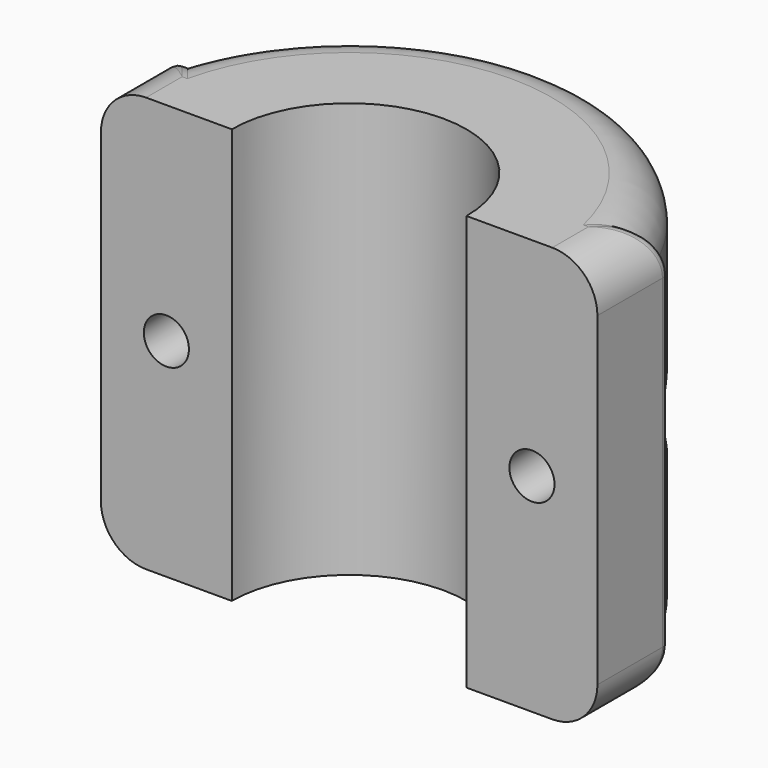
from build123d import *

# Parameters (mm, degrees)
F1_DEPTH       = 23
F4_D           = 9
F4_DEPTH       = 15
F4_TIP         = 2.7038727856
F5_D           = 5
F5_DEPTH       = 15
F5_CBORE_D     = 9
F5_CBORE_DEPTH = 5
F5_TIP         = 1.5021515476
F6_R           = 5
F7_R           = 5
F8_R           = 1
F9_R           = 1


with BuildPart() as f1:
    # F0 (on Top) → F1 (new body, symmetric)
    with BuildSketch(Plane.XY):
        with BuildLine():
            Line((-13, 10), (-13, 0))
            ThreePointArc((-13, 0), (0, 13), (13, 0))
            Line((13, 0), (13, 10))
            Line((13, 10), (25.6173769149, 10))
            ThreePointArc((25.6173769149, 10), (0, 27.5), (-25.6173769149, 10))
            Line((-25.6173769149, 10), (-13, 10))
        make_face()
        with BuildLine():
            Line((-27.5, 0), (-13, 0))
            Line((-13, 0), (-13, 10))
            Line((-13, 10), (-25.6173769149, 10))
            ThreePointArc((-25.6173769149, 10), (-27.0252462076, 5.0878352391), (-27.5, 0))
        make_face()
        with BuildLine():
            Line((13, 10), (13, 0))
            Line((13, 0), (27.5, 0))
            ThreePointArc((27.5, 0), (27.0252462076, 5.0878352391), (25.6173769149, 10))
            Line((25.6173769149, 10), (13, 10))
        make_face()
        with BuildLine():
            Line((-27.5, 10), (-27.5, 0))
            ThreePointArc((-27.5, 0), (-27.0252462076, 5.0878352391), (-25.6173769149, 10))
            Line((-25.6173769149, 10), (-27.5, 10))
        make_face()
        with BuildLine():
            ThreePointArc((25.6173769149, 10), (27.0252462076, 5.0878352391), (27.5, 0))
            Line((27.5, 0), (27.5, 10))
            Line((27.5, 10), (25.6173769149, 10))
        make_face()
    extrude(amount=F1_DEPTH, both=True)

    # F4 (one way)
    with BuildSketch(Plane.XZ.offset(-10)):
        with Locations((20.25, 0), (-20.25, 0)):
            Circle(F4_D / 2)
    extrude(amount=-F4_DEPTH, mode=Mode.SUBTRACT)
    with Locations(Plane.XZ.offset(-10)):
        with Locations((20.25, 0), (-20.25, 0)):
            with Locations((0, 0, -(F4_DEPTH + F4_TIP / 2))):  # 118° drill point
                Cone(0, F4_D / 2, F4_TIP, mode=Mode.SUBTRACT)

    # F5
    with Locations(Plane(origin=(0, 10, 0), x_dir=(1, 0, 0), z_dir=(0, 1, 0))):
        with Locations((-20.25, 0), (20.25, 0)):
            CounterBoreHole(F5_D / 2, F5_CBORE_D / 2, F5_CBORE_DEPTH, depth=F5_DEPTH)
            with Locations((0, 0, -(F5_DEPTH + F5_TIP / 2))):  # 118° drill point
                Cone(0, F5_D / 2, F5_TIP, mode=Mode.SUBTRACT)

    # F6
    f6_edges = [f1.edges().sort_by_distance(p)[0] for p in [
        (27.5, 5, -23),
        (-27.5, 5, -23),
        (-26.558688, 10, -23),
        (0, 27.5, -23),
        (26.558688, 10, -23),
    ]]
    fillet(f6_edges, radius=F6_R)

    # F7
    f7_edges = [f1.edges().sort_by_distance(p)[0] for p in [
        (0, 27.5, 23),
        (26.558688, 10, 23),
        (-26.558688, 10, 23),
        (-27.5, 5, 23),
        (27.5, 5, 23),
    ]]
    fillet(f7_edges, radius=F7_R)

    # F8
    f8_edges = [f1.edges().sort_by_distance(p)[0] for p in [
        (27.5, 10, 0),
    ]]
    fillet(f8_edges, radius=F8_R)

    # F9
    f9_edges = [f1.edges().sort_by_distance(p)[0] for p in [
        (-27.5, 10, 0),
    ]]
    fillet(f9_edges, radius=F9_R)


solid = f1.part
